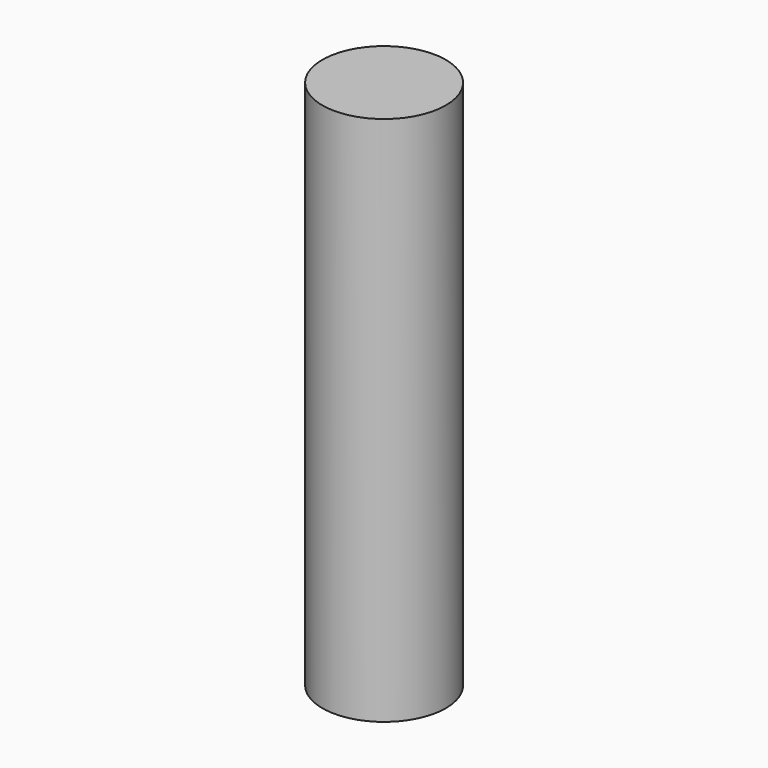
from build123d import *

# Parameters (mm, degrees)
F0_R      = 1.5
F1_DEPTH  = 1
F0_R_2    = 5
F1_FACE_R = 1.5
F2_DEPTH  = 43


with BuildPart() as f1:
    # F0 (on Top) → F1 (new body)
    with BuildSketch(Plane.XY):
        Circle(F0_R)
    extrude(amount=-F1_DEPTH)

    # F0 (on Top) + F1_face (on face) → F2 (join)
    with BuildSketch(Plane.XY):
        Circle(F0_R_2)
        Circle(F0_R, mode=Mode.SUBTRACT)
    with BuildSketch(Plane.XY):
        Circle(F1_FACE_R)
    extrude(amount=F2_DEPTH)


solid = f1.part
